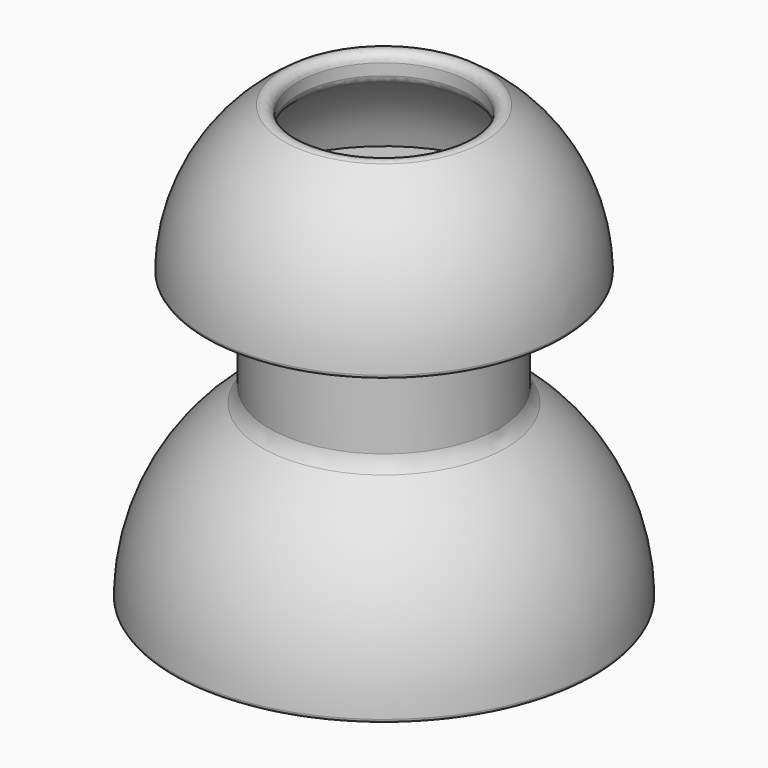
from build123d import *

# Parameters (mm, degrees)
F2_R     = 47.9591692075
F3_DEPTH = 261
F4_R     = 10
F5_R     = 2
F6_R     = 5


with BuildPart() as f1:
    # F0 (on Front) → F1 (revolve)
    with BuildSketch(Plane.XZ):
        with BuildLine():
            ThreePointArc((48.8541781645, 87.2540501975), (86.2711360087, 50.5696657273), (100, 0))
            Line((100, 0), (118.0426776409, 0))
            ThreePointArc((118.0426776409, 0), (103.6431915325, 56.4992264868), (63.9577880502, 99.214288751))
            Line((63.9577880502, 99.214288751), (63.9577880502, 160))
            Line((63.9577880502, 160), (100, 160))
            ThreePointArc((100, 160), (70.7106781187, 230.7106781187), (0, 260))
            Line((0, 260), (0, 244.7596675158))
            ThreePointArc((0, 244.7596675158), (52.4356930146, 226.5935382411), (82.3948094726, 179.8820675321))
            Line((82.3948094726, 179.8820675321), (48.8541781645, 179.8820675321))
            Line((48.8541781645, 179.8820675321), (48.8541781645, 87.2540501975))
        make_face()
    revolve(axis=Axis((0, 0, 80), (0, 0, 1)))

    # F2 (on Top) → F3 (cut)
    with BuildSketch(Plane.XY):
        Circle(F2_R)
    extrude(amount=F3_DEPTH, mode=Mode.SUBTRACT)

    # F4
    f4_edges = [f1.edges().sort_by_distance(p)[0] for p in [
        (-63.957788, 0, 160),
        (-63.957788, 0, 99.214289),
    ]]
    fillet(f4_edges, radius=F4_R)

    # F5
    f5_edges = [f1.edges().sort_by_distance(p)[0] for p in [
        (-100, 0, 160),
        (-118.042678, 0, 0),
    ]]
    fillet(f5_edges, radius=F5_R)

    # F6
    f6_edges = [f1.edges().sort_by_distance(p)[0] for p in [
        (-47.959169, 0, 229.886475),
        (-47.959169, 0, 247.749177),
    ]]
    fillet(f6_edges, radius=F6_R)


solid = f1.part
